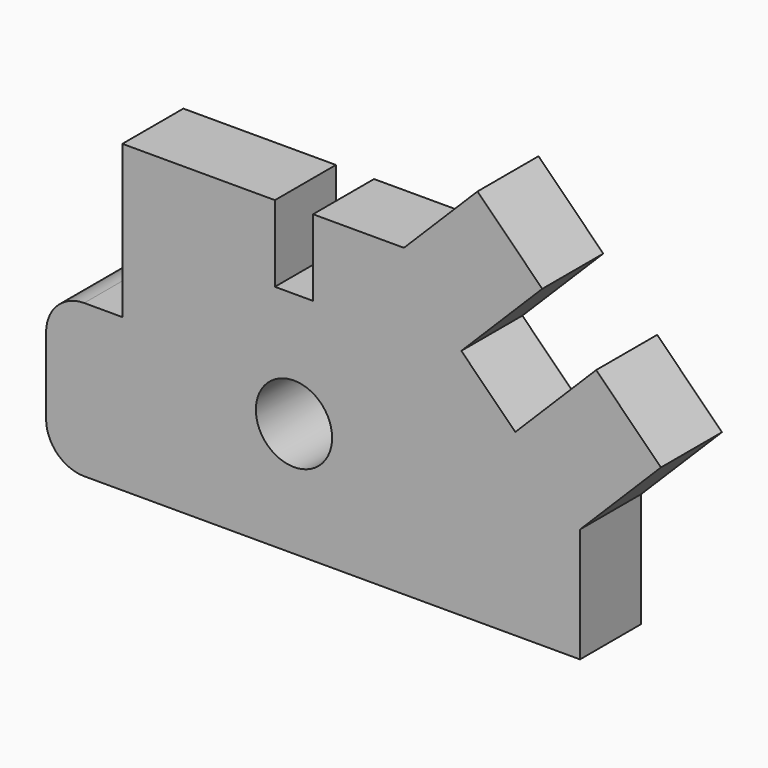
from build123d import *

# Parameters (mm, degrees)
F0_R     = 127
F1_DEPTH = 254


with BuildPart() as f1:
    # F0 (on Front) → F1 (new body)
    with BuildSketch(Plane.XZ):
        with BuildLine():
            Line((0, 381), (0, 127))
            ThreePointArc((0, 127), (37.197439, 37.197439), (127, 0))
            Line((127, 0), (1778, 0))
            Line((1778, 0), (1778, 381))
            Line((1778, 381), (2047.407684, 650.407684))
            Line((2047.407684, 650.407684), (1831.881537, 865.933831))
            Line((1831.881537, 865.933831), (1562.473853, 596.526147))
            Line((1562.473853, 596.526147), (1382.868731, 776.131269))
            Line((1382.868731, 776.131269), (1652.276414, 1045.538953))
            Line((1652.276414, 1045.538953), (1436.750267, 1261.0651))
            Line((1436.750267, 1261.0651), (1191.685168, 1016))
            Line((1191.685168, 1016), (889, 1016))
            Line((889, 1016), (889, 762))
            Line((889, 762), (762, 762))
            Line((762, 762), (762, 1016))
            Line((762, 1016), (254, 1016))
            Line((254, 1016), (254, 508))
            Line((254, 508), (127, 508))
            ThreePointArc((127, 508), (37.197439, 470.802561), (0, 381))
        make_face()
        with Locations((825.5, 381)):
            Circle(F0_R, mode=Mode.SUBTRACT)
    extrude(amount=F1_DEPTH)


solid = f1.part
